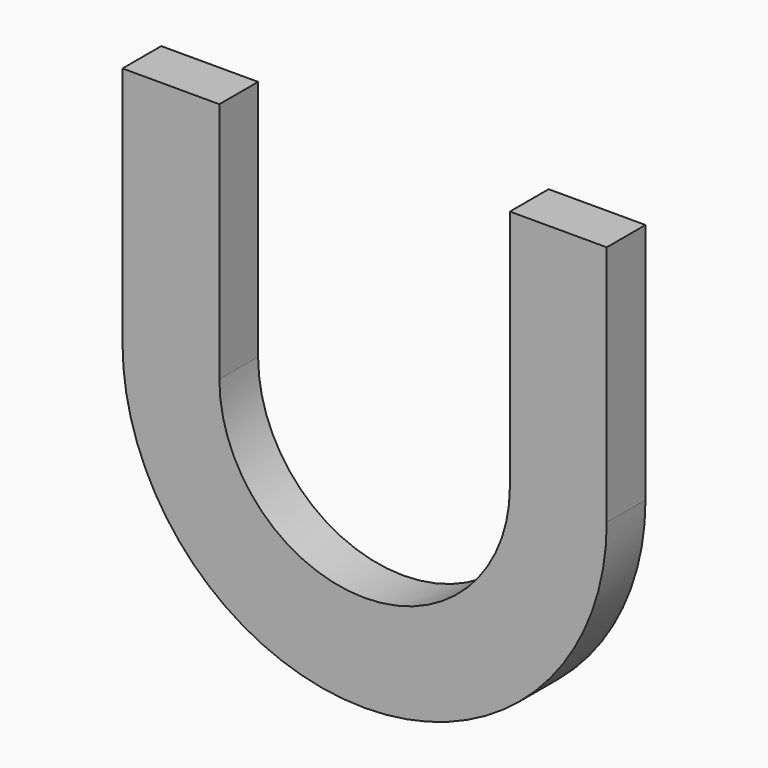
from build123d import *

# Parameters (mm, degrees)
F1_DEPTH = 1


with BuildPart() as f1:
    # F0 (on Front) → F1 (new body)
    with BuildSketch(Plane.XZ):
        with BuildLine():
            Line((-5, 5), (-5, 0))
            ThreePointArc((-5, 0), (0, -5), (5, 0))
            Line((5, 0), (5, 5))
            Line((5, 5), (3, 5))
            Line((3, 5), (3, 0))
            ThreePointArc((3, 0), (0, -3), (-3, 0))
            Line((-3, 0), (-3, 5))
            Line((-3, 5), (-5, 5))
        make_face()
    extrude(amount=F1_DEPTH)


solid = f1.part
